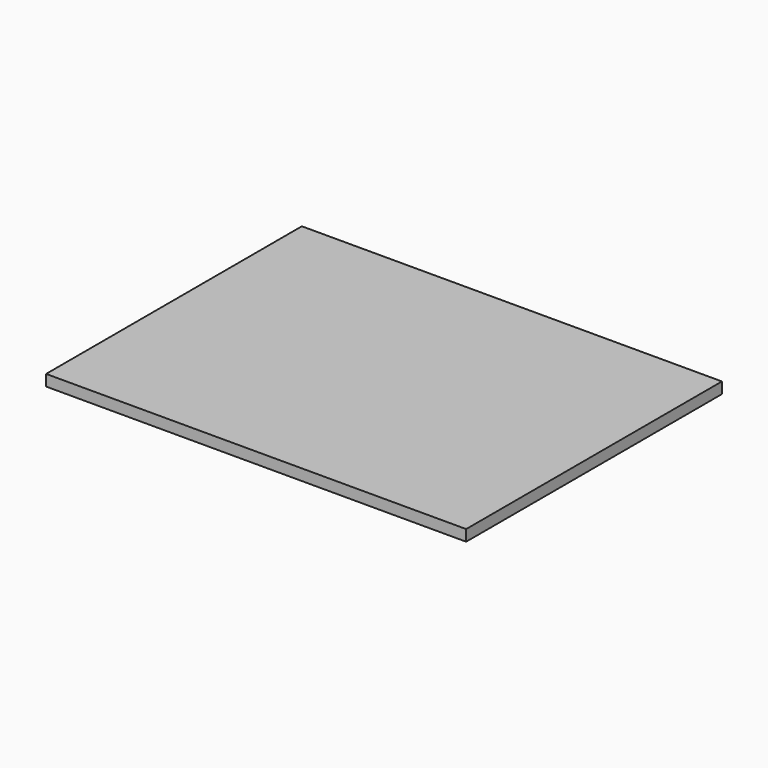
from build123d import *

# Parameters (mm, degrees)
SKETCH_W  = 113
SKETCH_H  = 86
PAD_DEPTH = 3


with BuildPart() as part:
    # Sketch → Pad (new body)
    with BuildSketch(Plane.XY):
        Rectangle(SKETCH_W, SKETCH_H)
    extrude(amount=PAD_DEPTH)


solid = part.part
